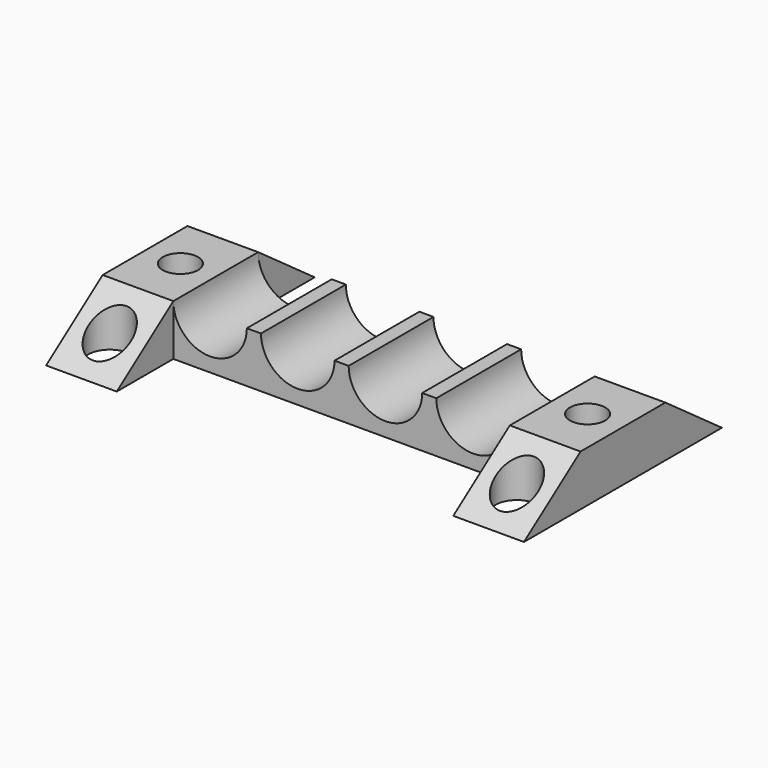
from build123d import *

# Parameters (mm, degrees)
F1_DEPTH      = 7.5
F2_W          = 5
F2_H          = 3.6
F3_DEPTH      = 5
F3_DEPTH_BACK = 12.5
F5_DEPTH      = 35.2
F6_R          = 1.5
F6_R_2        = 1.25
F7_DEPTH      = 25


with BuildPart() as f1:
    # F0 (on Front) → F1 (new body)
    with BuildSketch(Plane.XZ):
        with BuildLine():
            Line((16.9, 3.6), (11.9, 3.6))
            ThreePointArc((11.9, 3.6), (9.3, 1), (6.7, 3.6))
            Line((6.7, 3.6), (5.7, 3.6))
            ThreePointArc((5.7, 3.6), (3.1, 1), (0.5, 3.6))
            Line((0.5, 3.6), (-0.5, 3.6))
            ThreePointArc((-0.5, 3.6), (-3.1, 1), (-5.7, 3.6))
            Line((-5.7, 3.6), (-6.7, 3.6))
            ThreePointArc((-6.7, 3.6), (-9.3, 1), (-11.9, 3.6))
            Line((-11.9, 3.6), (-16.9, 3.6))
            Line((-16.9, 3.6), (-16.9, 0))
            Line((-16.9, 0), (16.9, 0))
            Line((16.9, 0), (16.9, 3.6))
        make_face()
    extrude(amount=F1_DEPTH)

    # F2 (on face) → F3 (join, two sides)
    with BuildSketch(Plane(origin=(0, 0, 0), x_dir=(-1, 0, 0), z_dir=(0, 1, 0))) as f3_sk:
        with Locations((-14.4, 1.8)):
            Rectangle(F2_W, F2_H)
        with Locations((14.4, 1.8)):
            Rectangle(F2_W, F2_H)
    extrude(amount=F3_DEPTH)
    extrude(f3_sk.sketch, amount=-F3_DEPTH_BACK)

    # F4 (on face) → F5 (cut)
    with BuildSketch(Plane.YZ.offset(16.9)):
        Polygon((-7.5, 3.6), (-12.5, 3.6), (-12.5, 0), align=None)
        Polygon((5, 0), (5, 3.6), (0, 3.6), align=None)
    extrude(amount=-F5_DEPTH, mode=Mode.SUBTRACT)

    # F6 (on face) → F7 (cut)
    with BuildSketch(Plane(origin=(0, 0, 0), x_dir=(1, 0, 0), z_dir=(0, 0, -1))):
        with Locations((14.4, 10)):
            Circle(F6_R)
        with Locations((14.4, 3.75)):
            Circle(F6_R_2)
        with Locations((14.4, -2.5)):
            Circle(F6_R)
        with Locations((-14.4, -2.5)):
            Circle(F6_R)
        with Locations((-14.4, 10)):
            Circle(F6_R)
        with Locations((-14.4, 3.75)):
            Circle(F6_R_2)
    extrude(amount=-F7_DEPTH, mode=Mode.SUBTRACT)


solid = f1.part
